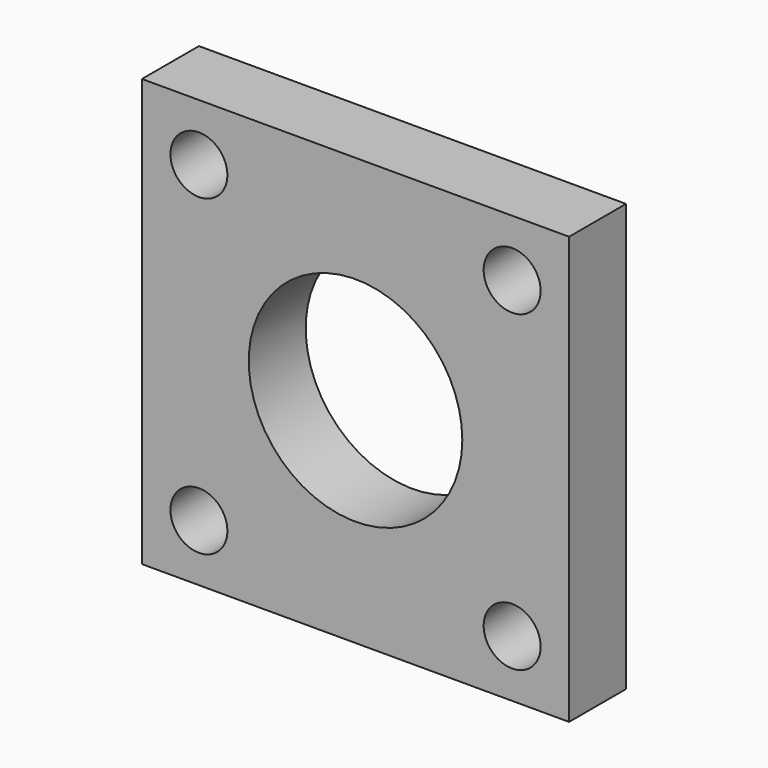
from build123d import *

# Parameters (mm, degrees)
F0_W     = 38.1
F0_H     = 38.1
F1_DEPTH = 6.35
F2_R     = 2.54
F3_DEPTH = 6.351
F4_R     = 9.525
F5_DEPTH = 6.351


with BuildPart() as f1:
    # F0 (on Front) → F1 (new body)
    with BuildSketch(Plane.XZ):
        Rectangle(F0_W, F0_H)
    extrude(amount=F1_DEPTH)

    # F2 (on face) → F3 (cut, through all)
    with BuildSketch(Plane.XZ.offset(6.35)):
        with Locations((-13.97, 13.97)):
            Circle(F2_R)
        with Locations((13.97, 13.97)):
            Circle(F2_R)
        with Locations((13.97, -13.97)):
            Circle(F2_R)
        with Locations((-13.97, -13.97)):
            Circle(F2_R)
    extrude(amount=-F3_DEPTH, mode=Mode.SUBTRACT)

    # F4 (on face) → F5 (cut, through all)
    with BuildSketch(Plane.XZ.offset(6.35)):
        Circle(F4_R)
    extrude(amount=-F5_DEPTH, mode=Mode.SUBTRACT)


solid = f1.part
